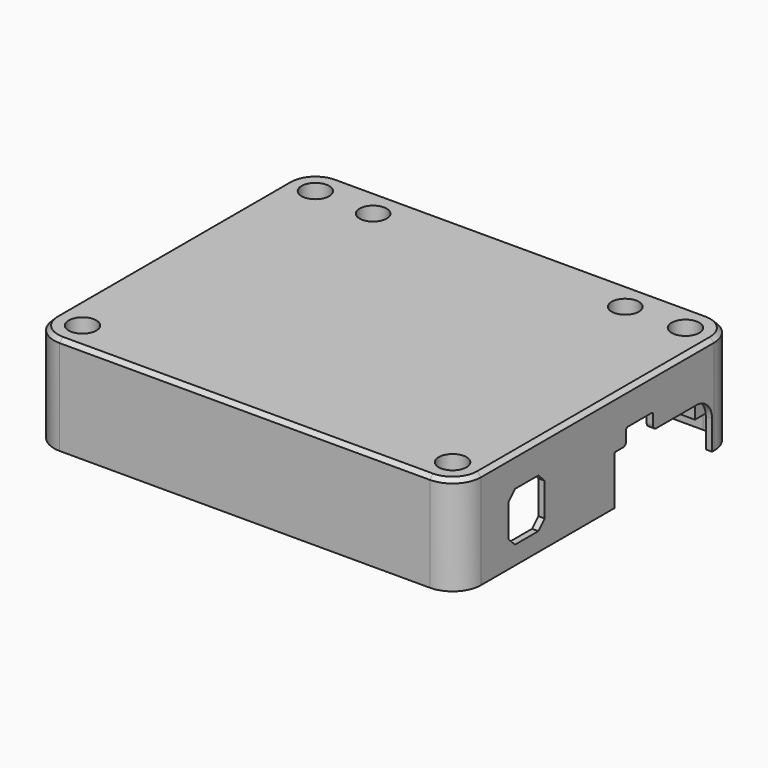
from build123d import *

# Parameters (mm, degrees)
PAD003_DEPTH        = 23
PAD004_DEPTH        = 2
POCKET007_DEPTH     = 1.6
FILLET_R            = 0.75
FILLET001_R         = 1
POCKET008_DEPTH     = 1.6
SKETCH014_W         = 11.4
SKETCH014_H         = 12.4
POCKET009_DEPTH     = 1.6
CHAMFER004_SIZE     = 2
SKETCH015_R         = 2
PAD005_DEPTH        = 15
SKETCH016_R         = 3.5
SKETCH016_R_2       = 3.425
POCKET010_DEPTH     = 14
FILLET004_R         = 1
FILLET005_R         = 0.5
CHAMFER005_SIZE     = 1
FILLET008_R         = 0.5
POCKET012_DEPTH     = 3
FILLET010_R         = 0.7
POCKET013_DEPTH     = 1.6
LINEARPATTERN_COUNT = 12
LINEARPATTERN_PITCH = 6.818182


with BuildPart() as part:
    # Sketch010 (on Face96 of Binder001) → Pad003 (new body)
    with BuildSketch(Plane(origin=(0, 0, -5.350198), x_dir=(1, 0, 0), z_dir=(0, 0, -1))):
        with BuildLine():
            Line((-57.149185, 33.546443), (-57.149185, -39.999649))
            ThreePointArc((-57.149185, -39.999649), (-55.040366, -45.090787), (-49.949228, -47.199606))
            Line((-49.949228, -47.199606), (43.550841, -47.199606))
            ThreePointArc((43.550841, -47.199606), (48.641979, -45.090787), (50.750798, -39.999649))
            Line((50.750798, -39.999649), (50.750798, 33.546443))
            ThreePointArc((50.750798, 33.546443), (48.641979, 38.637582), (43.550841, 40.746401))
            Line((43.550841, 40.746401), (-49.949228, 40.746401))
            ThreePointArc((-49.949228, 40.746401), (-55.040366, 38.637582), (-57.149185, 33.546443))
        make_face()
        with BuildLine():
            Line((-49.949228, -45.599606), (43.550841, -45.599606))
            ThreePointArc((43.550841, -45.599606), (47.510608, -43.959416), (49.150798, -39.999649))
            Line((49.150798, -39.999649), (49.150798, 33.546443))
            ThreePointArc((49.150798, 33.546443), (47.510608, 37.506211), (43.550841, 39.146401))
            Line((43.550841, 39.146401), (-49.949228, 39.146401))
            ThreePointArc((-49.949228, 39.146401), (-53.908996, 37.506211), (-55.549185, 33.546443))
            Line((-55.549185, 33.546443), (-55.549185, -39.999649))
            ThreePointArc((-55.549185, -39.999649), (-53.908996, -43.959416), (-49.949228, -45.599606))
        make_face(mode=Mode.SUBTRACT)
    extrude(amount=-PAD003_DEPTH)

    # Sketch011 (on Face18 of Pad003) → Pad004 (join)
    with BuildSketch(Plane.XY.offset(17.649802)):
        with BuildLine():
            Line((-57.149185, 39.999649), (-57.149185, -33.546443))
            ThreePointArc((-57.149185, -33.546443), (-55.040366, -38.637582), (-49.949228, -40.746401))
            Line((-49.949228, -40.746401), (43.550841, -40.746401))
            ThreePointArc((43.550841, -40.746401), (48.641979, -38.637582), (50.750798, -33.546443))
            Line((50.750798, -33.546443), (50.750798, 39.999649))
            ThreePointArc((50.750798, 39.999649), (48.641979, 45.090787), (43.550841, 47.199606))
            Line((43.550841, 47.199606), (-49.949228, 47.199606))
            ThreePointArc((-49.949228, 47.199606), (-55.040366, 45.090787), (-57.149185, 39.999649))
        make_face()
    extrude(amount=PAD004_DEPTH)

    # Sketch012 (on Face1 of Pad003) → Pocket007 (cut)
    with BuildSketch(Plane(origin=(-57.149185, 0, 0), x_dir=(0, -1, 0), z_dir=(-1, 0, 0))):
        Polygon((-29.525862, 10.75), (-29.525862, -5.350198), (-5.525862, -5.350198), (-5.525862, 10.75), (-13.275862, 10.75), (-13.275862, 14.75), (-21.775862, 14.75), (-21.775862, 10.75), align=None)
    extrude(amount=-POCKET007_DEPTH, mode=Mode.SUBTRACT)

    # Fillet
    fillet_edges = [part.edges().sort_by_distance(p)[0] for p in [
        (-56.349185, 5.525862, 10.75),
        (-56.349185, 13.275862, 10.75),
        (-56.349185, 13.275862, 14.75),
        (-56.349185, 21.775862, 14.75),
        (-56.349185, 21.775862, 10.75),
        (-56.349185, 29.525862, 10.75),
    ]]
    fillet(fillet_edges, radius=FILLET_R)

    # Fillet001
    fillet001_edges = [part.edges().sort_by_distance(p)[0] for p in [
        (-56.349185, 29.525862, -5.350198),
        (-56.349185, 5.525862, -5.350198),
    ]]
    fillet(fillet001_edges, radius=FILLET001_R)

    # Sketch013 (on Face26 of Fillet001) → Pocket008 (cut)
    with BuildSketch(Plane.YZ.offset(50.750798)):
        with BuildLine():
            Line((8.548466, 7.05), (8.548466, -5.350198))
            Line((39.410924, -5.350198), (8.548466, -5.350198))
            Line((39.410924, 2.01), (39.410924, -5.350198))
            ThreePointArc((39.410924, 2.01), (37.934742, 5.573818), (34.370924, 7.05))
            Line((24.478466, 7.05), (34.370924, 7.05))
            Line((24.478466, 7.05), (20.763466, 7.05))
            Line((20.763466, 11.05), (20.763466, 7.05))
            Line((12.263466, 11.05), (20.763466, 11.05))
            Line((12.263466, 7.05), (12.263466, 11.05))
            Line((12.263466, 7.05), (8.548466, 7.05))
        make_face()
    extrude(amount=-POCKET008_DEPTH, mode=Mode.SUBTRACT)

    # Sketch014 → Pocket009 (cut)
    with BuildSketch(Plane.YZ.offset(50.750798)):
        with Locations((-19.150394, 5.5)):
            Rectangle(SKETCH014_W, SKETCH014_H)
    extrude(amount=-POCKET009_DEPTH, mode=Mode.SUBTRACT)

    # Chamfer004
    chamfer004_edges = [part.edges().sort_by_distance(p)[0] for p in [
        (49.950798, -24.850394, 11.7),
        (49.950798, -13.450394, 11.7),
        (49.950798, -24.850394, -0.7),
        (49.950798, -13.450394, -0.7),
    ]]
    chamfer(chamfer004_edges, length=CHAMFER004_SIZE)

    # Sketch015 (on Face13 of Chamfer004) → Pad005 (join)
    with BuildSketch(Plane(origin=(0, 0, 17.649802), x_dir=(1, 0, 0), z_dir=(0, 0, -1))):
        with BuildLine():
            Line((-55.549185, 29.546443), (-49.949228, 29.546443))
            ThreePointArc((-49.949228, 29.546443), (-47.120801, 30.718016), (-45.949228, 33.546443))
            Line((-45.949228, 33.546443), (-45.949228, 39.146401))
            Line((-45.949228, 39.146401), (-49.949228, 39.146401))
            ThreePointArc((-49.949228, 39.146401), (-53.908996, 37.506211), (-55.549185, 33.546443))
            Line((-55.549185, 33.546443), (-55.549185, 29.546443))
        make_face()
        with Locations((-49.949228, 33.546443)):
            Circle(SKETCH015_R, mode=Mode.SUBTRACT)
        with BuildLine():
            Line((-27.949228, -45.599606), (-27.949228, -33.599606))
            Line((-27.949228, -33.599606), (-42.149142, -33.599606))
            Line((-42.149142, -33.599606), (-44.549185, -35.999649))
            Line((-44.549185, -35.999649), (-55.549185, -35.999649))
            Line((-55.549185, -35.999649), (-55.549185, -39.999649))
            ThreePointArc((-55.549185, -39.999649), (-53.908996, -43.959416), (-49.949228, -45.599606))
            Line((-49.949228, -45.599606), (-27.949228, -45.599606))
        make_face()
        with Locations((-49.949228, -39.999649)):
            Circle(SKETCH015_R, mode=Mode.SUBTRACT)
        with BuildLine():
            Line((43.550841, -45.599606), (21.550995, -45.599606))
            Line((21.550995, -45.599606), (21.550995, -33.599606))
            Line((35.750798, -33.599606), (21.550995, -33.599606))
            Line((38.150798, -35.999606), (35.750798, -33.599606))
            Line((38.150798, -35.999606), (49.150798, -35.999606))
            Line((49.150798, -35.999606), (49.150798, -39.999649))
            ThreePointArc((43.550841, -45.599606), (47.510608, -43.959416), (49.150798, -39.999649))
        make_face()
        with Locations((43.550995, -39.999606)):
            Circle(SKETCH015_R, mode=Mode.SUBTRACT)
        with BuildLine():
            Line((39.550798, 39.146401), (39.550798, 33.549824))
            ThreePointArc((39.550798, 33.549824), (40.722371, 30.721354), (43.550841, 29.549781))
            Line((43.550841, 29.549781), (49.150798, 29.549781))
            Line((49.150798, 29.549781), (49.150798, 33.546443))
            ThreePointArc((49.150798, 33.546443), (47.510608, 37.506211), (43.550841, 39.146401))
            Line((39.550798, 39.146401), (43.550841, 39.146401))
        make_face()
        with Locations((43.550798, 33.549781)):
            Circle(SKETCH015_R, mode=Mode.SUBTRACT)
    extrude(amount=PAD005_DEPTH)

    # Sketch016 (on Face24 of Pad005) → Pocket010 (cut)
    with BuildSketch(Plane(origin=(0, 0, 19.649802), x_dir=(1, 0, 0), z_dir=(0, 0, -1))):
        with Locations((-49.949228, 33.546443)):
            Circle(SKETCH016_R)
        with Locations((43.550798, 33.549781)):
            Circle(SKETCH016_R)
        with Locations((43.550995, -39.999606)):
            Circle(SKETCH016_R)
        with Locations((-49.949228, -39.999649)):
            Circle(SKETCH016_R)
        with Locations((28.650897, -39.599606)):
            Circle(SKETCH016_R_2)
        with Locations((-35.049185, -39.599606)):
            Circle(SKETCH016_R_2)
    extrude(amount=POCKET010_DEPTH, mode=Mode.SUBTRACT)

    # Fillet004
    fillet004_edges = [part.edges().sort_by_distance(p)[0] for p in [
        (49.950798, 12.263466, 7.05),
        (49.950798, 20.763466, 7.05),
    ]]
    fillet(fillet004_edges, radius=FILLET004_R)

    # Fillet005
    fillet005_edges = [part.edges().sort_by_distance(p)[0] for p in [
        (49.950798, 12.263466, 11.05),
        (49.950798, 8.548466, 7.05),
        (49.950798, 20.763466, 11.05),
    ]]
    fillet(fillet005_edges, radius=FILLET005_R)

    # Chamfer005
    chamfer005_edges = [part.edges().sort_by_distance(p)[0] for p in [
        (50.750798, 3.226603, 19.649802),
        (48.641979, -38.637582, 19.649802),
        (-3.199194, -40.746401, 19.649802),
        (-55.040366, -38.637582, 19.649802),
        (-57.149185, 3.226603, 19.649802),
        (-55.040366, 45.090787, 19.649802),
        (-3.199194, 47.199606, 19.649802),
        (48.641979, 45.090787, 19.649802),
    ]]
    chamfer(chamfer005_edges, length=CHAMFER005_SIZE)

    # Fillet008
    fillet008_edges = [part.edges().sort_by_distance(p)[0] for p in [
        (-45.949228, -36.346422, 2.649802),
        (-47.120801, -30.718016, 2.649802),
        (-52.749206, -29.546443, 2.649802),
        (39.550798, -36.348112, 2.649802),
        (40.722371, -30.721354, 2.649802),
        (46.350819, -29.549781, 2.649802),
    ]]
    fillet(fillet008_edges, radius=FILLET008_R)

    # Sketch020 (on Face59 of Fillet008) → Pocket012 (cut)
    with BuildSketch(Plane(origin=(0, 0, 2.649802), x_dir=(1, 0, 0), z_dir=(0, 0, -1))):
        Polygon((21.550995, -33.599606), (21.550995, -45.599606), (38.150798, -45.599606), (38.150798, -35.999606), (35.750798, -33.599606), align=None)
        Polygon((-44.549185, -35.999649), (-42.149142, -33.599606), (-27.949228, -33.599606), (-27.949228, -45.599606), (-44.549185, -45.599606), align=None)
    extrude(amount=-POCKET012_DEPTH, mode=Mode.SUBTRACT)

    # Fillet010
    fillet010_edges = [part.edges().sort_by_distance(p)[0] for p in [
        (38.150798, 40.799606, 5.649802),
        (38.150798, 40.799606, 2.649802),
        (-44.549185, 40.799627, 2.649802),
        (-44.549185, 40.799627, 5.649802),
    ]]
    fillet(fillet010_edges, radius=FILLET010_R)

    # Sketch025 (on Face92 of Fillet010) → Pocket013 (cut)
    with BuildSketch(Plane(origin=(0, 47.199606, 0), x_dir=(-1, 0, 0), z_dir=(0, 1, 0))):
        with BuildLine():
            ThreePointArc((-28.415093, 15.202588), (-28.862306, 16.544229), (-30.203947, 16.097016))
            Line((-30.203947, 16.097016), (-39.203947, -1.902984))
            ThreePointArc((-39.203947, -1.902984), (-38.756734, -3.244625), (-37.415093, -2.797412))
            Line((-28.415093, 15.202588), (-37.415093, -2.797412))
        make_face()
    pocket013 = extrude(amount=-POCKET013_DEPTH, mode=Mode.SUBTRACT)

    # LinearPattern: Pocket013 ×12
    with Locations(*[(-i * LINEARPATTERN_PITCH, 0, 0) for i in range(1, LINEARPATTERN_COUNT)]):
        add(pocket013, mode=Mode.SUBTRACT)


solid = part.part
